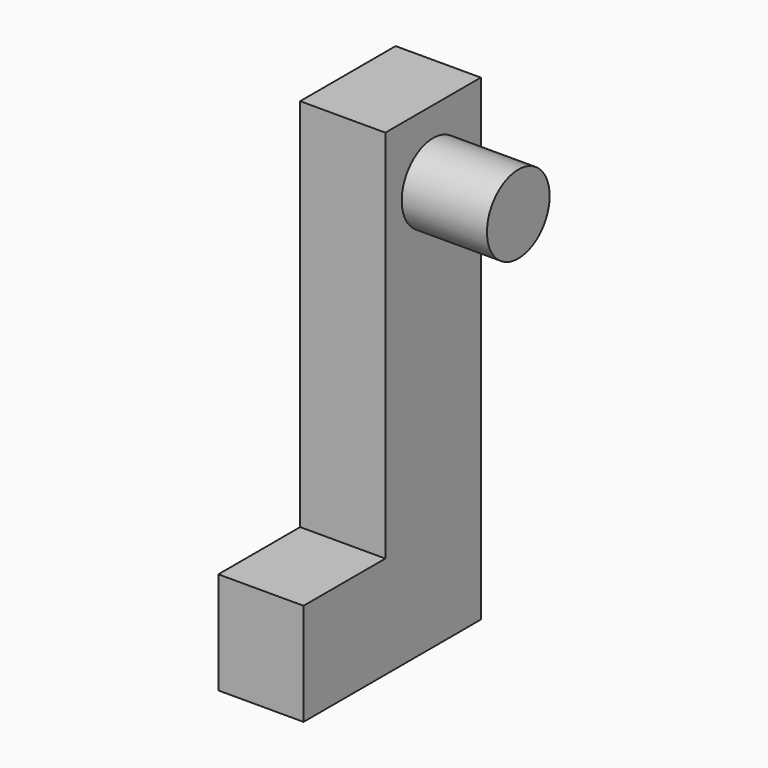
from build123d import *

# Parameters (mm, degrees)
F1_DEPTH = 6.35
F2_R     = 2.921
F3_DEPTH = 6.35


with BuildPart() as f1:
    # F0 (on Right) → F1 (new body)
    with BuildSketch(Plane.YZ):
        Polygon((-16.51, 0), (0, 0), (0, 35.56), (-8.89, 35.56), (-8.89, 7.62), (-16.51, 7.62), align=None)
    extrude(amount=F1_DEPTH)

    # F2 (on face) → F3 (join)
    with BuildSketch(Plane.YZ.offset(6.35)):
        with Locations((-4.445, 30.48)):
            Circle(F2_R)
    extrude(amount=F3_DEPTH)


solid = f1.part
